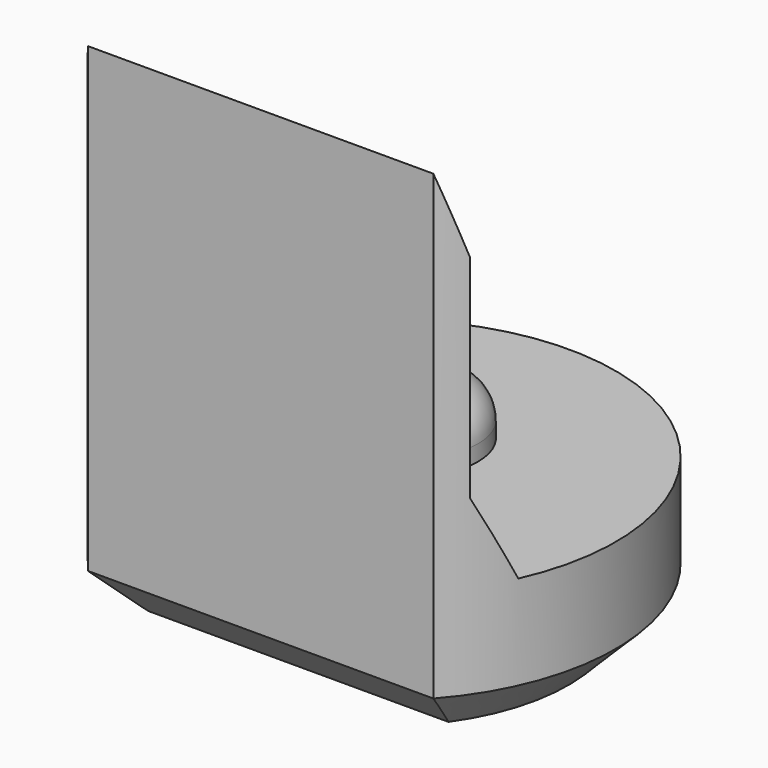
from build123d import *

# Parameters (mm, degrees)
PAD003_DEPTH         = 6.5
POCKET004_DEPTH      = 2.951
POCKET004_DEPTH_BACK = 2.951
SKETCH013_R          = 0.8
PAD006_DEPTH         = 0.7
FILLET_R             = 0.5
CHAMFER004_SIZE      = 0.6


with BuildPart() as part:
    # Sketch004 → Pad003 (new body)
    with BuildSketch(Plane.XY):
        with BuildLine():
            ThreePointArc((2.2, -1.9653244007), (0, 2.95), (-2.2, -1.9653244007))
            Line((-2.2, -1.9653244007), (2.2, -1.9653244007))
        make_face()
    extrude(amount=PAD003_DEPTH)

    # Sketch014 → Pocket004 (cut, two sides)
    with BuildSketch(Plane.YZ) as pocket004_sk:
        Polygon((-1.97, 6.5), (-1.67, 5.5), (-1.67, 2.8), (-1.22, 1.8), (4, 1.8), (4, 6.5), align=None)
    extrude(amount=-POCKET004_DEPTH, mode=Mode.SUBTRACT)
    extrude(pocket004_sk.sketch, amount=POCKET004_DEPTH_BACK, mode=Mode.SUBTRACT)

    # Sketch013 (on Face7 of Pocket004) → Pad006 (join)
    with BuildSketch(Plane.XY.offset(1.8)):
        with Locations((0, 0.5)):
            Circle(SKETCH013_R)
    extrude(amount=PAD006_DEPTH)

    # Fillet
    fillet_edges = [part.edges().sort_by_distance(p)[0] for p in [
        (-0.8, 0.5, 2.5),
    ]]
    fillet(fillet_edges, radius=FILLET_R)

    # Chamfer004
    chamfer004_edges = [part.edges().sort_by_distance(p)[0] for p in [
        (0, 2.95, 0),
        (0, -1.965324, 0),
    ]]
    chamfer(chamfer004_edges, length=CHAMFER004_SIZE)


with BuildPart() as part_1:
    # Body021 placement: moved
    add(part.part.moved(Location((0, 12, 0))))


solid = part_1.part
